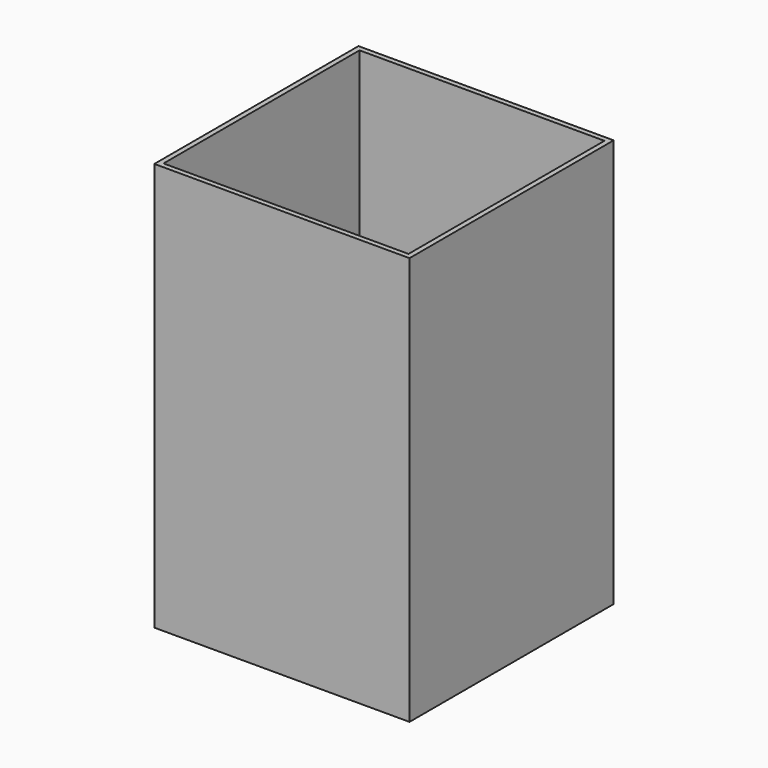
from build123d import *

# Parameters (mm, degrees)
BOX001_W     = 48
BOX001_H     = 48
BOX001_DEPTH = 78
BOX_W        = 50
BOX_H        = 50
BOX_DEPTH    = 80


with BuildPart() as cub001:
    # Box001 → Box001 (new body)
    with BuildSketch(Plane(origin=(1, 1, 3), x_dir=(1, 0, 0), z_dir=(0, 0, 1))):
        with Locations((24, 24)):
            Rectangle(BOX001_W, BOX001_H)
    extrude(amount=BOX001_DEPTH)


with BuildPart() as cut:
    # Box → Box (new body)
    with BuildSketch(Plane.XY):
        with Locations((25, 25)):
            Rectangle(BOX_W, BOX_H)
    extrude(amount=BOX_DEPTH)

    # Cut: cut Cub001
    add(cub001.part, mode=Mode.SUBTRACT)


solid = cut.part
